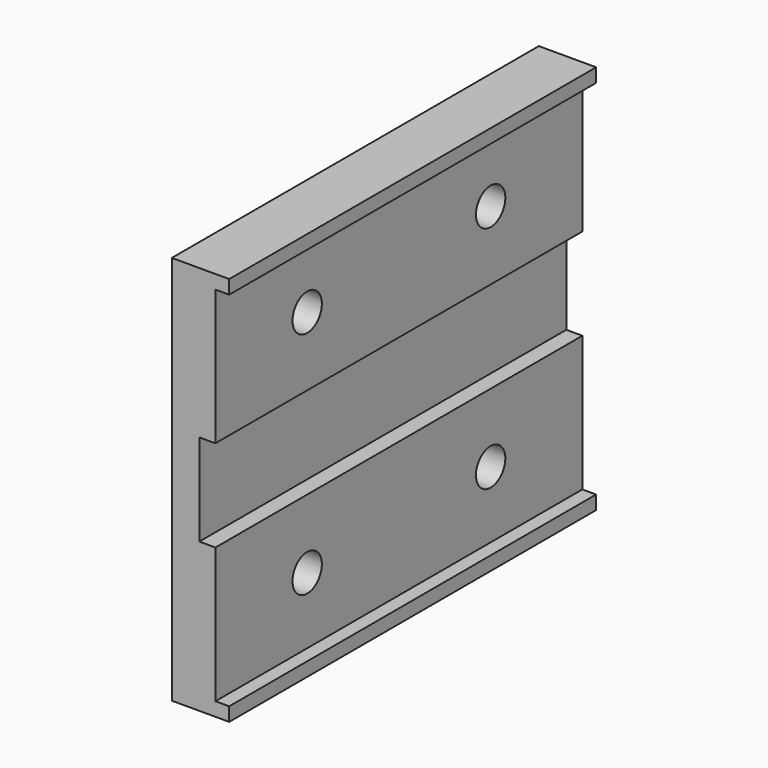
from build123d import *

# Parameters (mm, degrees)
F1_DEPTH = 100
F2_R     = 4
F3_DEPTH = 25


with BuildPart() as f1:
    # F0 (on Front) → F1 (new body)
    with BuildSketch(Plane.XZ):
        Polygon((-6.551726, 42.5), (-19.051726, 42.5), (-19.051726, 0), (-19.051726, -42.5), (-6.551726, -42.5), (-6.551726, -39.5), (-9.551726, -39.5), (-9.551726, -10), (-13.051726, -10), (-13.051726, 0), (-13.051726, 10), (-9.551726, 10), (-9.551726, 39.5), (-6.551726, 39.5), align=None)
    extrude(amount=F1_DEPTH)

    # F2 (on face) → F3 (cut)
    with BuildSketch(Plane(origin=(-19.051726, 0, 0), x_dir=(0, -1, 0), z_dir=(-1, 0, 0))):
        with Locations((25, 25)):
            Circle(F2_R)
        with Locations((75, 25)):
            Circle(F2_R)
        with Locations((25, -25)):
            Circle(F2_R)
        with Locations((75, -25)):
            Circle(F2_R)
    extrude(amount=-F3_DEPTH, mode=Mode.SUBTRACT)


solid = f1.part
